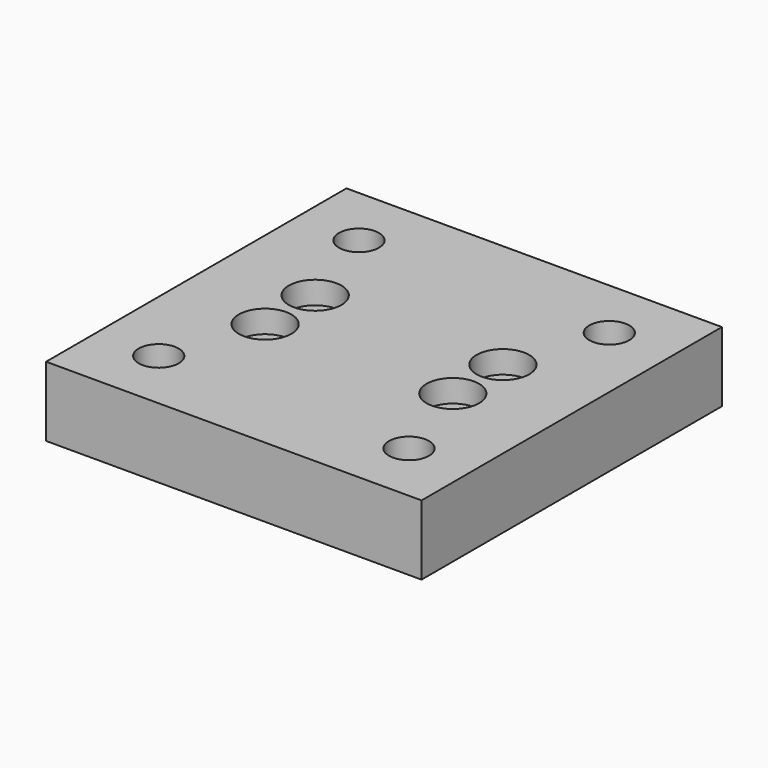
from build123d import *

# Parameters (mm, degrees)
SKETCH_W        = 60
SKETCH_H        = 60
PAD_DEPTH       = 11.15
SKETCH001_R     = 2.1
SKETCH001_R_2   = 3.2
POCKET_DEPTH    = 12
SKETCH002_R     = 4.2
POCKET001_DEPTH = 3.6


with BuildPart() as part:
    # Sketch → Pad (new body)
    with BuildSketch(Plane.XY):
        with Locations((30, 30)):
            Rectangle(SKETCH_W, SKETCH_H)
    extrude(amount=PAD_DEPTH)

    # Sketch001 (on Face6 of Pad) → Pocket (cut)
    with BuildSketch(Plane.XY.offset(11.15)):
        with Locations((15, 35)):
            Circle(SKETCH001_R)
        with Locations((45, 35)):
            Circle(SKETCH001_R)
        with Locations((15, 25)):
            Circle(SKETCH001_R)
        with Locations((45, 25)):
            Circle(SKETCH001_R)
        with Locations((10, 50)):
            Circle(SKETCH001_R_2)
        with Locations((50, 50)):
            Circle(SKETCH001_R_2)
        with Locations((10, 10)):
            Circle(SKETCH001_R_2)
        with Locations((50, 10)):
            Circle(SKETCH001_R_2)
    extrude(amount=-POCKET_DEPTH, mode=Mode.SUBTRACT)

    # Sketch002 (on Face5 of Pocket) → Pocket001 (cut)
    with BuildSketch(Plane.XY.offset(11.15)):
        with Locations((15, 35)):
            Circle(SKETCH002_R)
        with Locations((45, 35)):
            Circle(SKETCH002_R)
        with Locations((45, 25)):
            Circle(SKETCH002_R)
        with Locations((15, 25)):
            Circle(SKETCH002_R)
    extrude(amount=-POCKET001_DEPTH, mode=Mode.SUBTRACT)


solid = part.part
